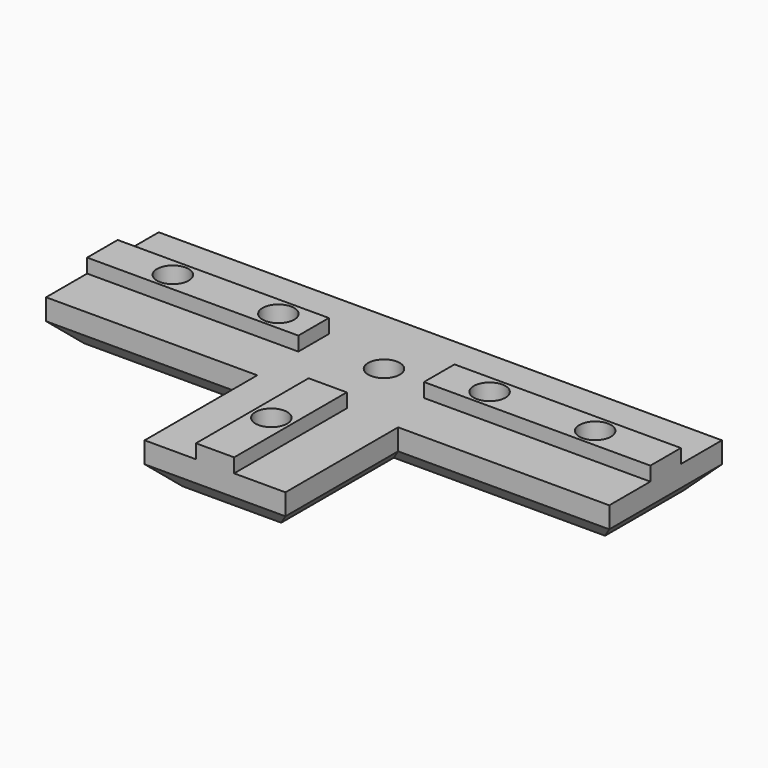
from build123d import *

# Parameters (mm, degrees)
F1_DEPTH = 6
F2_W     = 30
F2_H     = 5.42
F3_DEPTH = 2
F4_R     = 2.25
F5_DEPTH = 8.001
F6_R     = 3.75
F7_DEPTH = 2
F8_SIZE  = 3


with BuildPart() as f1:
    # F0 (on Top) → F1 (new body)
    with BuildSketch(Plane.XY):
        Polygon((-40, 0), (-10, 0), (-10, -20), (0, -20), (10, -20), (10, 0), (40, 0), (40, 20), (0, 20), (-40, 20), align=None)
    extrude(amount=F1_DEPTH)

    # F2 (on face) → F3 (join)
    with BuildSketch(Plane.XY.offset(6)):
        Polygon((2.71, 0), (0, 0), (-2.71, 0), (-2.71, -20), (2.71, -20), align=None)
        Polygon((7.845558, 12.71), (7.845558, 10), (7.845558, 7.29), (40, 7.29), (40, 12.71), align=None)
        with Locations((-25, 10)):
            Rectangle(F2_W, F2_H)
    extrude(amount=F3_DEPTH)

    # F4 (on face) → F5 (cut, through all)
    with BuildSketch(Plane(origin=(0, 0, 0), x_dir=(1, 0, 0), z_dir=(0, 0, -1))):
        with Locations((-30, -10)):
            Circle(F4_R)
        with Locations((0, -10)):
            Circle(F4_R)
        with Locations((0, 10)):
            Circle(F4_R)
        with Locations((30, -10)):
            Circle(F4_R)
        with Locations((15, -10)):
            Circle(F4_R)
        with Locations((-15, -10)):
            Circle(F4_R)
    extrude(amount=-F5_DEPTH, mode=Mode.SUBTRACT)

    # F6 (on face) → F7 (cut)
    with BuildSketch(Plane(origin=(0, 0, 0), x_dir=(1, 0, 0), z_dir=(0, 0, -1))):
        with Locations((0, 10)):
            Circle(F6_R)
        with Locations((0, -10)):
            Circle(F6_R)
        with Locations((30, -10)):
            Circle(F6_R)
        with Locations((-30, -10)):
            Circle(F6_R)
        with Locations((-15, -10)):
            Circle(F6_R)
        with Locations((15, -10)):
            Circle(F6_R)
    extrude(amount=-F7_DEPTH, mode=Mode.SUBTRACT)

    # F8
    f8_edges = [f1.edges().sort_by_distance(p)[0] for p in [
        (-10, -10, 0),
        (-25, 0, 0),
        (10, -10, 0),
        (25, 0, 0),
        (0, 20, 0),
        (40, 10, 0),
        (-40, 10, 0),
        (0, -20, 0),
    ]]
    chamfer(f8_edges, length=F8_SIZE)


solid = f1.part
